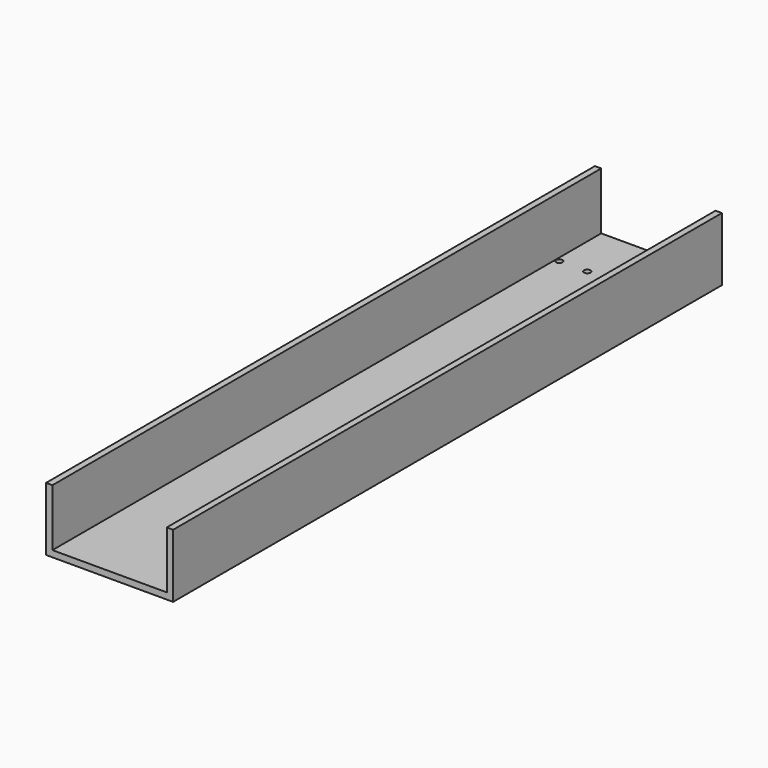
from build123d import *

# Parameters (mm, degrees)
F1_DEPTH = 540
F3_D     = 5


with BuildPart() as f1:
    # F0 (on Front) → F1 (new body)
    with BuildSketch(Plane.XZ):
        Polygon((-50, 50), (-50, 0), (50, 0), (50, 50), (45, 50), (45, 5), (-45, 5), (-45, 50), align=None)
    extrude(amount=F1_DEPTH)

    # F3 (through all)
    with Locations(Plane(origin=(0, 0, 0), x_dir=(1, 0, 0), z_dir=(0, 0, -1))):
        with Locations((-42, 45), (42, 45), (-20, 45), (20, 45)):
            Hole(F3_D / 2)


solid = f1.part
